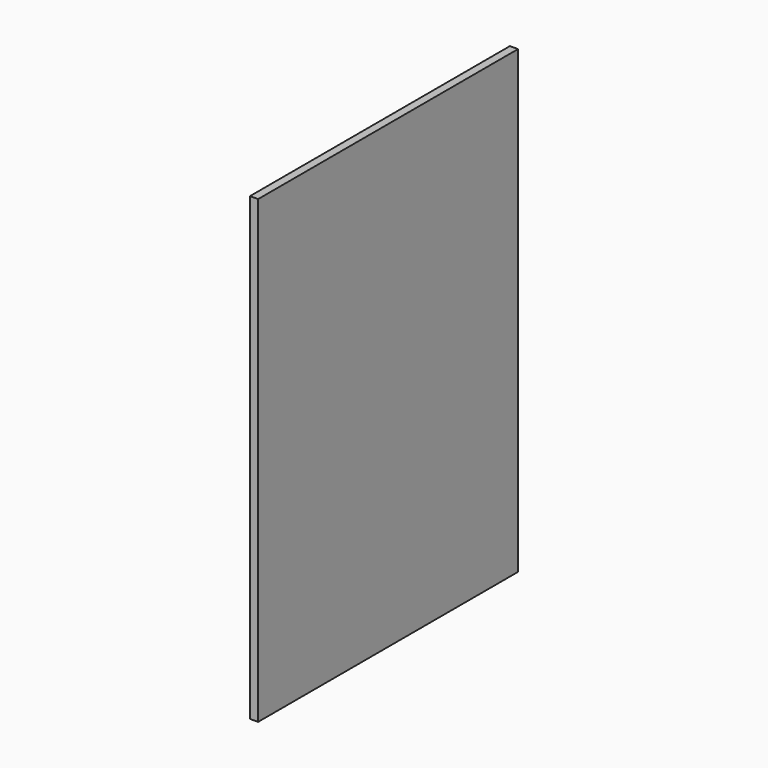
from build123d import *

# Parameters (mm, degrees)
SKETCH_W  = 600
SKETCH_H  = 850
PAD_DEPTH = 15


with BuildPart() as part:
    # Sketch → Pad (new body)
    with BuildSketch(Plane.YZ):
        with Locations((300, 425)):
            Rectangle(SKETCH_W, SKETCH_H)
    extrude(amount=PAD_DEPTH)


solid = part.part
